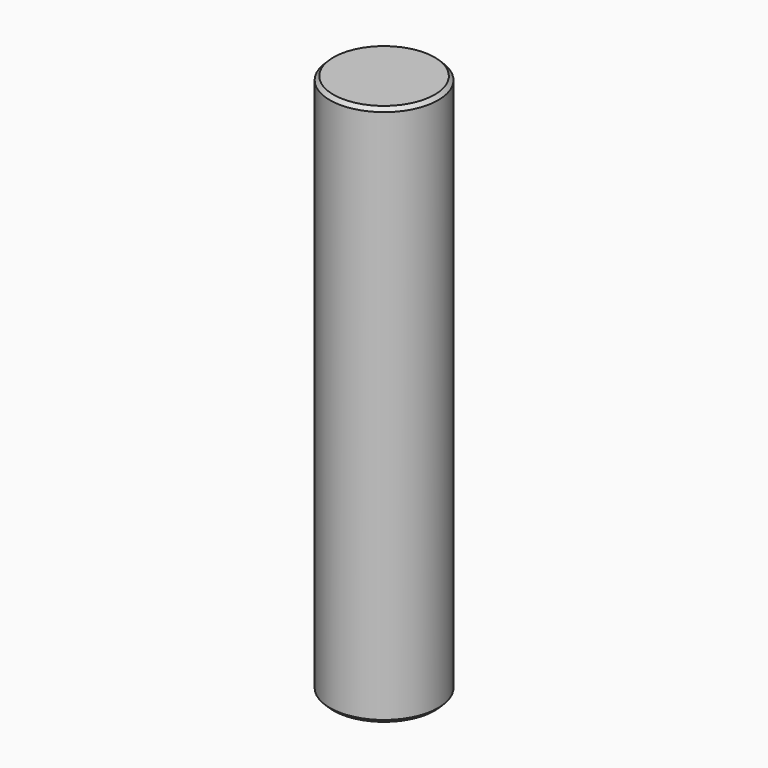
from build123d import *

# Parameters (mm, degrees)
SKETCH_R     = 1.5
PAD_DEPTH    = 15
CHAMFER_SIZE = 0.1


with BuildPart() as part:
    # Sketch → Pad (new body)
    with BuildSketch(Plane.XY):
        Circle(SKETCH_R)
    extrude(amount=-PAD_DEPTH)

    # Chamfer
    chamfer_edges = [part.edges().sort_by_distance(p)[0] for p in [
        (-1.5, 0, 0),
        (-1.5, 0, -15),
    ]]
    chamfer(chamfer_edges, length=CHAMFER_SIZE)


solid = part.part
